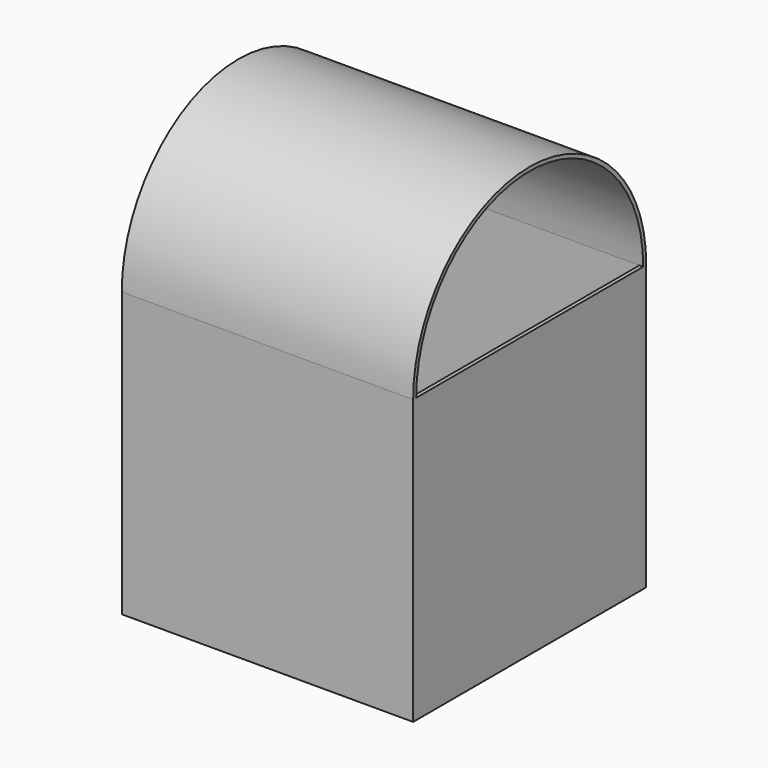
from build123d import *

# Parameters (mm, degrees)
F2_W     = 154
F2_H     = 154
F2_W_2   = 150
F2_H_2   = 150
F3_DEPTH = 150
F5_DEPTH = 154
F4_R     = 2.1
F4_R_2   = 4.75
F6_DEPTH = 2


with BuildPart() as f3:
    # F2 (on Top) → F3 (new body)
    with BuildSketch(Plane.XY):
        Rectangle(F2_W, F2_H)
        Rectangle(F2_W_2, F2_H_2, mode=Mode.SUBTRACT)
    extrude(amount=F3_DEPTH)


with BuildPart() as f5:
    # F4 (on face) → F5 (new body)
    with BuildSketch(Plane(origin=(-77, 0, 0), x_dir=(0, -1, 0), z_dir=(-1, 0, 0))):
        with BuildLine():
            ThreePointArc((-75, 150), (0, 225), (75, 150))
            Line((75, 150), (77, 150))
            ThreePointArc((77, 150), (0, 227), (-77, 150))
            Line((-77, 150), (-75, 150))
        make_face()
    extrude(amount=-F5_DEPTH)


with BuildPart() as f6:
    # F4 (on face) → F6 (new body)
    with BuildSketch(Plane(origin=(-77, 0, 0), x_dir=(0, -1, 0), z_dir=(-1, 0, 0))):
        with BuildLine():
            Line((-75, 150), (75, 150))
            ThreePointArc((75, 150), (0, 225), (-75, 150))
        make_face()
        with Locations((-17.5, 175)):
            Circle(F4_R, mode=Mode.SUBTRACT)
        with Locations((0, 182.9)):
            Circle(F4_R_2, mode=Mode.SUBTRACT)
        with Locations((17.5, 175)):
            Circle(F4_R, mode=Mode.SUBTRACT)
    extrude(amount=-F6_DEPTH)


solid = Compound([f3.part, f5.part, f6.part])
